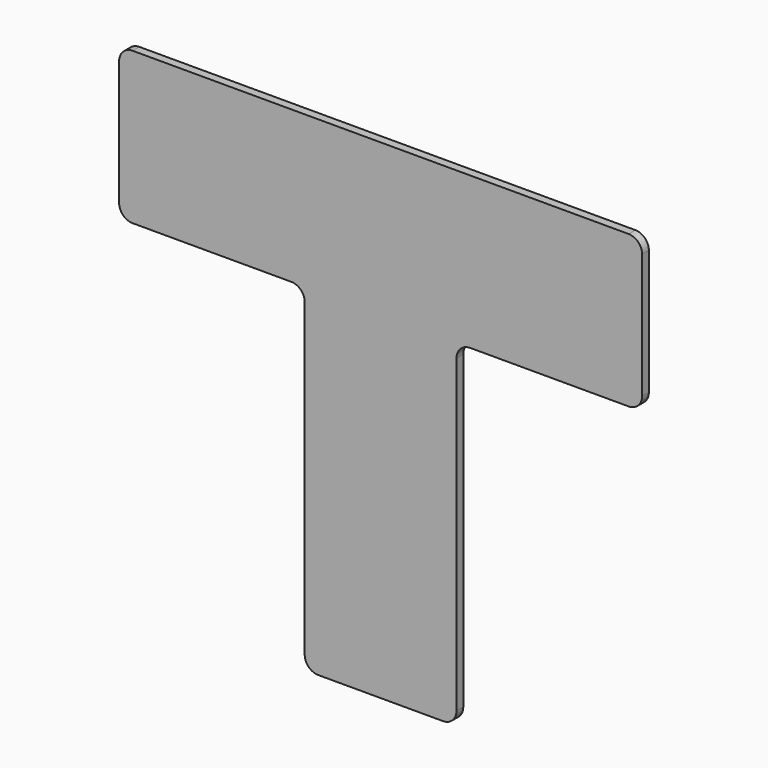
from build123d import *

# Parameters (mm, degrees)
F1_DEPTH = 2.5


with BuildPart() as f1:
    # F0 (on Front) → F1 (new body)
    with BuildSketch(Plane.XZ):
        with BuildLine():
            ThreePointArc((77.5, 18.5), (76.328427, 21.328427), (73.5, 22.5))
            Line((73.5, 22.5), (-73.5, 22.5))
            ThreePointArc((-73.5, 22.5), (-76.328427, 21.328427), (-77.5, 18.5))
            Line((-77.5, 18.5), (-77.5, -18.5))
            ThreePointArc((-77.5, -18.5), (-76.328427, -21.328427), (-73.5, -22.5))
            Line((-73.5, -22.5), (-26.5, -22.5))
            ThreePointArc((-26.5, -22.5), (-23.671573, -23.671573), (-22.5, -26.5))
            Line((-22.5, -26.5), (-22.5, -118.5))
            ThreePointArc((-22.5, -118.5), (-21.328427, -121.328427), (-18.5, -122.5))
            Line((-18.5, -122.5), (18.5, -122.5))
            ThreePointArc((18.5, -122.5), (21.328427, -121.328427), (22.5, -118.5))
            Line((22.5, -118.5), (22.5, -26.5))
            ThreePointArc((22.5, -26.5), (23.671573, -23.671573), (26.5, -22.5))
            Line((26.5, -22.5), (73.5, -22.5))
            ThreePointArc((73.5, -22.5), (76.328427, -21.328427), (77.5, -18.5))
            Line((77.5, -18.5), (77.5, 18.5))
        make_face()
    extrude(amount=F1_DEPTH)


solid = f1.part
